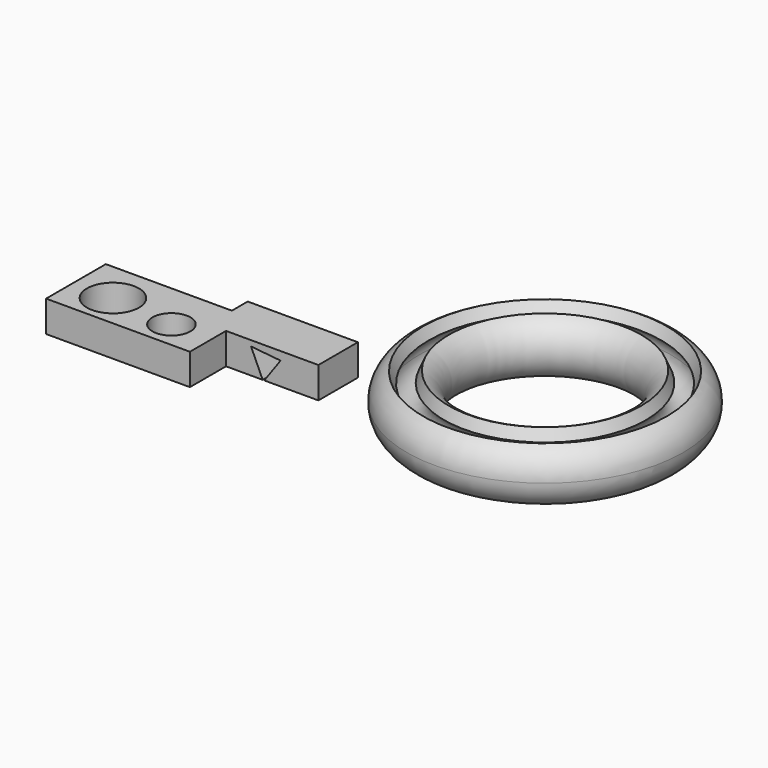
from build123d import *

# Parameters (mm, degrees)
F0_R     = 25.4
F0_R_2   = 15.24
F4_R     = 22.057319
F4_R_2   = 16.100119
F5_DEPTH = 26.416
F7_DEPTH = 91.5712


with BuildPart() as f1:
    # F0 (on Front) → F1 (revolve)
    with BuildSketch(Plane.XZ):
        with Locations((91.603839, 16.770092)):
            Circle(F0_R)
        with Locations((91.603839, 16.770092)):
            Circle(F0_R_2, mode=Mode.SUBTRACT)
    revolve(axis=Axis((0, 0, 16.426022), (0, 0, 1)))

    # F2 (on Front) → F3 (revolve, cut)
    with BuildSketch(Plane.XZ):
        Polygon((109.816086, 52.021809), (76.345354, 52.021809), (91.583908, 16.787987), align=None)
    revolve(axis=Axis((0, 0, 16.426022), (0, 0, 1)), mode=Mode.SUBTRACT)


with BuildPart() as f5:
    # F4 (on Top) → F5 (new body)
    with BuildSketch(Plane.XY):
        Polygon((-231.505126, -42.202905), (-338.233203, -42.202905), (-338.233203, -105.496319), (-216.410711, -105.496319), (-216.410711, -67.250391), (-138.184935, -67.250391), (-138.184935, -25.433639), (-231.505126, -25.433639), align=None)
        with Locations((-304.221243, -77.216417)):
            Circle(F4_R, mode=Mode.SUBTRACT)
        with Locations((-250.447571, -82.488224)):
            Circle(F4_R_2, mode=Mode.SUBTRACT)
    extrude(amount=F5_DEPTH)

    # F6 (on face) → F7 (cut, through all)
    with BuildSketch(Plane(origin=(0, -25.433639, 0), x_dir=(-1, 0, 0), z_dir=(0, 1, 0))):
        Polygon((185.375924, 0), (195.240579, 21.737269), (170.208767, 19.286921), (184.012181, 0), align=None)
    extrude(amount=-F7_DEPTH, mode=Mode.SUBTRACT)


solid = Compound([f1.part, f5.part])
